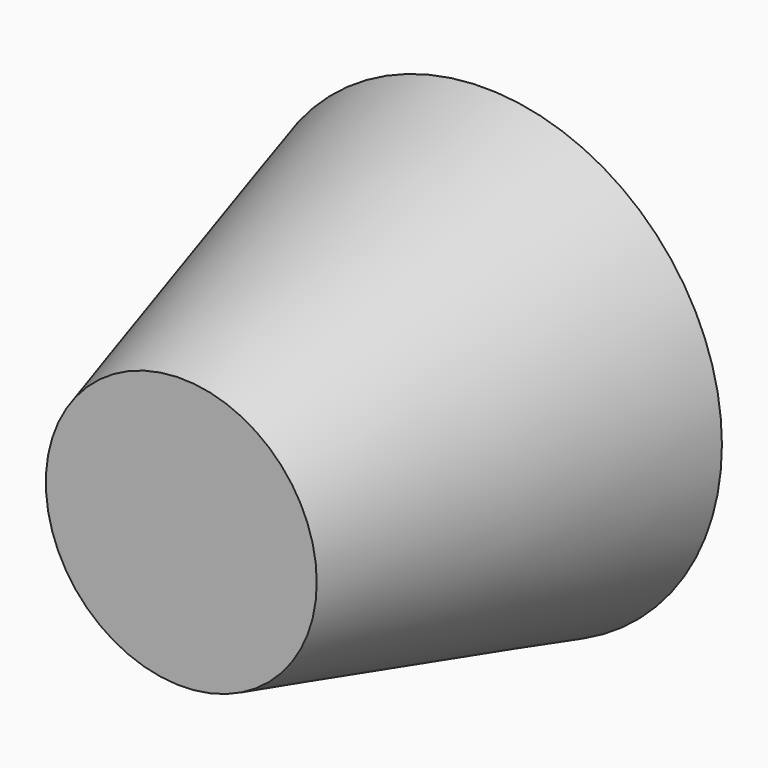
from build123d import *

# Parameters (mm, degrees)
F0_R     = 10
F1_DEPTH = 16
F1_TAPER = 15
F2_R     = 5
F3_DEPTH = 8


with BuildPart() as f1:
    # F0 (on Front) → F1 (new body)
    with BuildSketch(Plane.XZ):
        Circle(F0_R)
    extrude(amount=F1_DEPTH, taper=F1_TAPER)

    # F2 (on face) → F3 (cut)
    with BuildSketch(Plane(origin=(0, 0, 0), x_dir=(-1, 0, 0), z_dir=(0, 1, 0))):
        Circle(F2_R)
    extrude(amount=-F3_DEPTH, mode=Mode.SUBTRACT)


solid = f1.part
